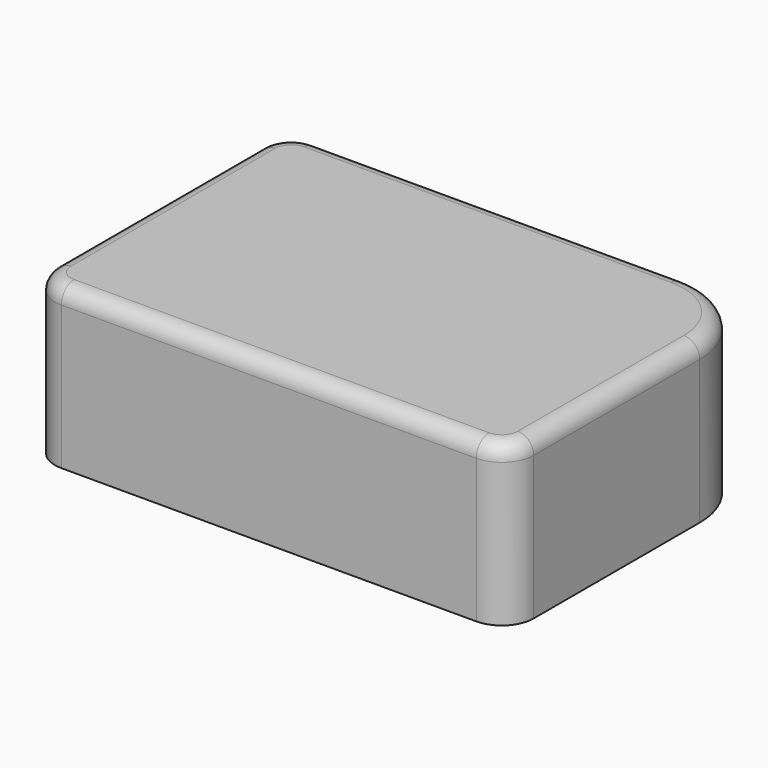
from build123d import *

# Parameters (mm, degrees)
F1_DEPTH = 50
F2_R     = 5


with BuildPart() as f1:
    # F0 (on Top) → F1 (new body)
    with BuildSketch(Plane.XY):
        with BuildLine():
            ThreePointArc((-75, -40), (-72.071068, -47.071068), (-65, -50))
            Line((-65, -50), (65, -50))
            ThreePointArc((65, -50), (72.071068, -47.071068), (75, -40))
            Line((75, -40), (75, 25))
            ThreePointArc((75, 25), (67.67767, 42.67767), (50, 50))
            Line((50, 50), (-65, 50))
            ThreePointArc((-65, 50), (-72.071068, 47.071068), (-75, 40))
            Line((-75, 40), (-75, -40))
        make_face()
    extrude(amount=F1_DEPTH)

    # F2
    f2_edges = [f1.edges().sort_by_distance(p)[0] for p in [
        (75, -7.5, 50),
    ]]
    fillet(f2_edges, radius=F2_R)


solid = f1.part
